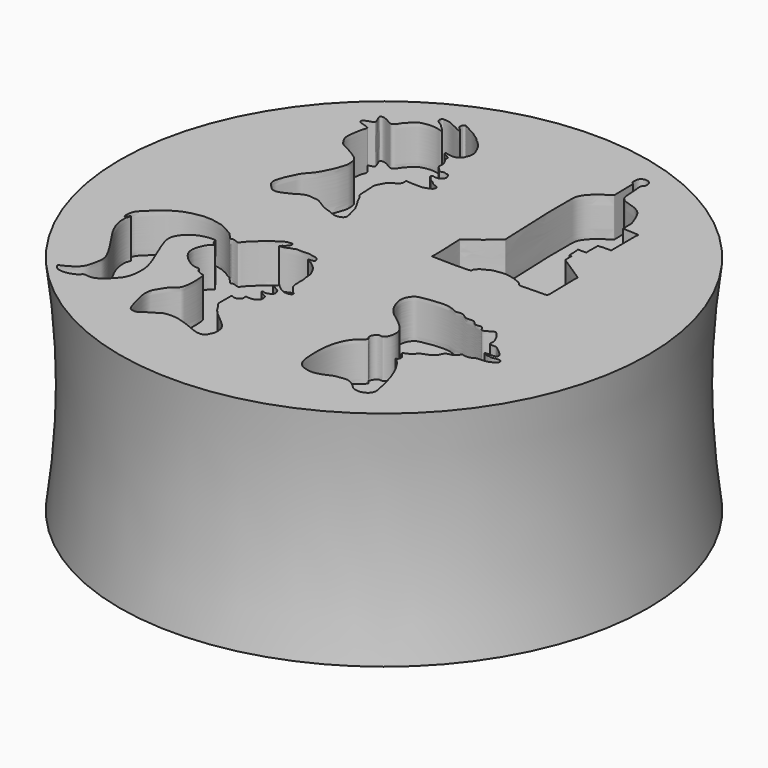
from build123d import *

# Parameters (mm, degrees)
F3_DEPTH = 2.032
F5_DEPTH = 2.032
F7_DEPTH = 2.032
F9_DEPTH = 2.032


with BuildPart() as f1:
    # F0 (on Front) → F1 (revolve)
    with BuildSketch(Plane.XZ):
        with BuildLine():
            Line((13.716, 0), (0, 0))
            Line((0, 0), (0, -11.5731857513))
            Line((0, -11.5731857513), (13.716, -11.5731857513))
            ThreePointArc((13.716, -11.5731857513), (13.3108942081, -5.7865928757), (13.716, 0))
        make_face()
    revolve(axis=Axis((0, 0, -5.7865928757), (0, 0, -1)))

    # F2 (on Top) → F3 (cut)
    with BuildSketch(Plane.XY):
        with BuildLine():
            add(Edge.make_bspline(
                [(-6.905444432, 1.8205125816), (-6.810169393, 1.84644297), (-6.6521913318, 1.9312976158), (-6.3217532892, 2.0606607457), (-6.0202620609, 2.3038258286), (-5.6880455928, 2.3318260561), (-5.446172564, 2.2793194143), (-5.224783216, 2.2817350468), (-4.9588668468, 2.1041887286), (-4.7272150887, 1.9502236312), (-4.4821679353, 1.8437176757), (-4.2062865033, 1.7718683134), (-3.9601212127, 1.6363402206), (-3.7164147967, 1.6241282616), (-3.4937167992, 1.6968150428), (-3.4112016474, 1.8165975547), (-3.424450116, 1.9580823515), (-3.4501937987, 2.1081536581), (-3.5106710922, 2.244290938), (-3.5226221004, 2.4052372282), (-3.6010269197, 2.6594761881), (-3.6712780711, 2.7466389399), (-3.8097927711, 3.0535194829), (-3.9451059095, 3.2106292698), (-4.0104276255, 3.3883061979), (-4.092439748, 3.5538525357), (-4.2099681002, 3.669381575), (-4.2072636319, 3.780609429), (-4.2214195213, 4.0717444297), (-4.2460742393, 4.2529298276), (-4.2295657843, 4.444820209), (-4.2730699736, 4.5902409107), (-4.2009111642, 4.8293088019), (-4.1012189002, 4.9742559491), (-3.9988648346, 5.2082830382), (-3.8658109256, 5.2848794451), (-3.7258191952, 5.3550564946), (-3.6246425341, 5.4358606072), (-3.542511594, 5.4883084458), (-3.4982627017, 5.5702621475), (-3.4838502107, 5.6313193879), (-3.4816062023, 5.71721469), (-3.5050938868, 5.8139414717), (-3.4075781299, 5.8019700015), (-3.2838380051, 5.792321929), (-3.1719112736, 5.7715660893), (-2.8922199929, 5.7837714135), (-2.6463098125, 5.7659096395), (-2.4906607207, 5.815400303), (-2.32591904, 5.8722329662), (-2.1709642193, 5.9658767259), (-2.1477064648, 6.0947460606), (-2.2047185025, 6.2008377332), (-2.329277449, 6.212815625), (-2.5140484001, 6.298790382), (-2.5807127417, 6.4070562197), (-2.7084660949, 6.4593761728), (-2.7975442982, 6.5170988875), (-2.8592396348, 6.6149267598), (-2.8864740446, 6.6663268888), (-2.9721698253, 6.7148187432), (-2.9866409248, 6.7259950038), (-2.9963129053, 6.7842973666), (-2.9187165229, 6.8560815706), (-2.8459491967, 6.7748426577), (-2.7694522723, 6.7984889311), (-2.6395718065, 6.7840941119), (-2.5632151852, 6.8114433368), (-2.4613726032, 6.9001252003), (-2.392393222, 7.0035157623), (-2.4000597389, 7.0693910544), (-2.4220555225, 7.1625966276), (-2.4663008488, 7.218792661), (-2.498644644, 7.2874008684), (-2.5405647138, 7.3201279485), (-2.6211070631, 7.2959365516), (-2.7304675508, 7.3655669771), (-2.816709522, 7.3333397175), (-2.9080309205, 7.3203508254), (-2.956249201, 7.3271139314), (-3.0201503658, 7.3099072336), (-3.0430203088, 7.3962542291), (-3.1337722335, 7.5059967751), (-3.2187302027, 7.5626689136), (-3.2335660332, 7.603715807), (-3.2677455161, 7.6754328962), (-3.2468318019, 7.7374355934), (-3.2544900549, 7.8018511621), (-3.2447765305, 7.8560378949), (-3.2555953948, 7.9037639047), (-3.2607934927, 7.9551739528), (-3.2683195287, 7.9727425784), (-3.3241726273, 8.1146539728), (-3.3815997678, 8.1641327562), (-3.4108893662, 8.2387738888), (-3.4375411299, 8.2836542295), (-3.4338476976, 8.3404247341), (-3.4438482569, 8.4033301876), (-3.44649257, 8.4709547852), (-3.5013311201, 8.4791987874), (-3.545044031, 8.5226718752), (-3.6207717475, 8.5685401531), (-3.6723010516, 8.5931509906), (-3.7354118974, 8.6223371361), (-3.7699701082, 8.64836071), (-3.7914451959, 8.6877310626), (-3.7908879443, 8.7258756204), (-3.7803878029, 8.7301486718), (-3.7277890021, 8.7154055468), (-3.6729298821, 8.7109823356), (-3.6110707686, 8.6841556598), (-3.5105452508, 8.6694913554), (-3.4342110107, 8.6652567901), (-3.3055874899, 8.6521266089), (-3.2255364862, 8.682979881), (-3.1822714579, 8.7051086656), (-3.107378622, 8.7067499931), (-3.0403587555, 8.8054468077), (-2.9568551726, 8.8811419448), (-2.9387153384, 8.9459859473), (-2.897704653, 9.0305195926), (-2.8727797219, 9.0967133677), (-2.8423202101, 9.1745548251), (-2.8478458691, 9.2774935914), (-2.8396646259, 9.3896434831), (-2.869674966, 9.5404169307), (-2.9458426039, 9.649125478), (-2.9677067749, 9.7515655207), (-3.0401845767, 9.8260426502), (-3.0514415099, 9.931518732), (-3.1121576656, 9.9909913411), (-3.1881479277, 10.0656348396), (-3.2022306327, 10.1102431009), (-3.2452247655, 10.1466514048), (-3.3782446572, 10.3055378733), (-3.4765275008, 10.3384498472), (-3.5491949921, 10.4722818853), (-3.6618181517, 10.5301043052), (-3.7098914811, 10.5694643303), (-3.7818818129, 10.6237171282), (-3.8460826928, 10.6722137684), (-3.9057660805, 10.7097704487), (-4.026697344, 10.7943705103), (-4.1015166174, 10.8331944197), (-4.181082755, 10.8778310498), (-4.2609685889, 10.9068834143), (-4.3577750297, 10.9528338532), (-4.4207280057, 11.0183266391), (-4.5917981531, 11.062837008), (-4.6430379445, 11.1207694698), (-4.741313342, 11.0862507426), (-4.7603030162, 11.0064648867), (-4.7961239457, 10.8783529633), (-4.7453427775, 10.8032577314), (-4.6352834814, 10.7248186431), (-4.5770549336, 10.6446948484), (-4.5289630256, 10.5759494088), (-4.4506321465, 10.5312578639), (-4.5521945063, 10.5578385711), (-4.5626670949, 10.6055913349), (-4.6392737172, 10.6087101088), (-4.7295366688, 10.6504114705), (-4.8095334208, 10.6837155362), (-4.8550338246, 10.7241628214), (-4.9344471478, 10.7656731091), (-5.0669091962, 10.7918131499), (-5.0843919752, 10.8388973757), (-5.1991373925, 10.8821257123), (-5.3295575824, 10.9421042834), (-5.424317447, 10.965503318), (-5.545970145, 10.9719956798), (-5.6631409022, 10.9804243304), (-5.7438856623, 10.9942535851), (-5.7871339964, 10.9101160138), (-5.7962245822, 10.8289988513), (-5.7739114495, 10.7328122479), (-5.7125485373, 10.6666550691), (-5.5901324233, 10.610821158), (-5.4627880606, 10.5193394128), (-5.3931177686, 10.4435753584), (-5.3083341382, 10.3524746351), (-5.2239912003, 10.2953493107), (-5.1786083122, 10.246455903), (-5.1556977723, 10.200566006), (-5.128421599, 10.1511106976), (-5.1921656789, 10.13769921), (-5.2151857127, 10.1624127642), (-5.2986890819, 10.1731089461), (-5.3746785086, 10.1919790262), (-5.4979866128, 10.2181175716), (-5.7478784672, 10.242062793), (-5.9004243571, 10.2210566898), (-6.1049958285, 10.1933985354), (-6.336018626, 10.12278057), (-6.4730982798, 9.9997759186), (-6.6472911153, 9.8350445358), (-6.8196186012, 9.6483791752), (-6.9178441235, 9.4334856856), (-7.0482065646, 9.3416571834), (-7.1739407362, 9.3318394483), (-7.3674663398, 9.4620320848), (-7.5289186861, 9.5494018355), (-7.7021654612, 9.6087901022), (-7.847118135, 9.5892306341), (-7.8869025225, 9.449994216), (-7.6096457702, 9.0509161816), (-7.8681216206, 8.9838044827), (-8.0130309143, 8.9398722114), (-8.2264851723, 8.8485064712), (-8.2175158322, 8.6926686757), (-8.0281903222, 8.6197479007), (-7.8557291255, 8.5836240242), (-7.6877016305, 8.5099431142), (-7.6439861099, 8.4816145991), (-7.6208473379, 8.3781563726), (-7.7234439725, 8.2132616471), (-7.7568060129, 7.8230952406), (-7.8137859284, 7.6152856735), (-7.8230618794, 7.2184250651), (-7.7207475596, 7.0358910033), (-7.5422319882, 6.7327617161), (-7.2714009733, 6.6006375649), (-6.8168300668, 6.3742921472), (-6.332424891, 6.0420959596), (-6.2724238724, 5.8162716263), (-6.2283106361, 5.473106261), (-6.3310227212, 5.1383906492), (-6.4157311209, 4.9006644205), (-6.4617462802, 4.7982244308), (-6.7964067636, 4.0761476059), (-7.1823379153, 3.729598711), (-7.3346060122, 3.432957366), (-7.5338053389, 3.0484007812), (-7.6658387373, 2.6088804701), (-7.7204698259, 2.3902911533), (-7.6118549942, 2.143193278), (-7.4223647697, 1.9802481935), (-7.2485618021, 1.7705032376), (-7.0084348913, 1.7924823375), (-6.905444432, 1.8205125816)],
                knots=[0, 0, 0, 0, 0.0061391413, 0.013044367, 0.0202821724, 0.0268766695, 0.032626063, 0.0380104451, 0.0445075529, 0.0507268431, 0.0567103203, 0.0629470102, 0.0690861515, 0.0748188879, 0.0803393663, 0.0845387565, 0.0888341189, 0.0934064408, 0.0978164457, 0.1026039169, 0.1084660412, 0.1125314752, 0.1191659099, 0.1246033477, 0.1295803349, 0.1346485325, 0.1391762402, 0.142983578, 0.1492289116, 0.1543989162, 0.1593587734, 0.1638977556, 0.1695391031, 0.1746073035, 0.1803566926, 0.184884403, 0.1894785503, 0.1936779448, 0.1973009939, 0.2007583805, 0.2036656899, 0.2071728386, 0.2103744193, 0.2134986089, 0.2176608772, 0.221611842, 0.2277701473, 0.233629159, 0.238260967, 0.2431610167, 0.2480032153, 0.2519898306, 0.2557178519, 0.2597618411, 0.2649563164, 0.2690873218, 0.273300174, 0.2771510386, 0.2810019007, 0.283937753, 0.2874634966, 0.289024876, 0.2916507807, 0.2949731328, 0.2983737026, 0.3015897709, 0.3057417022, 0.3090436056, 0.3133243518, 0.31735706, 0.3202929188, 0.3238354966, 0.3270059382, 0.3301763711, 0.3326694492, 0.3358855125, 0.3399295116, 0.3434208481, 0.3469121904, 0.3495381011, 0.3521640118, 0.3553344534, 0.3598452265, 0.3634883736, 0.365880244, 0.3690594025, 0.3720128915, 0.3749582658, 0.3776637462, 0.3802923447, 0.382833429, 0.3845327409, 0.3889612998, 0.3923398734, 0.3955351111, 0.3981722767, 0.4008777574, 0.4039071716, 0.4067309855, 0.4092060214, 0.4121203033, 0.4155708644, 0.4184287897, 0.4214600726, 0.42387816, 0.4263531902, 0.4284899877, 0.4295004169, 0.4321432282, 0.4349507076, 0.4379669131, 0.4416324861, 0.4449485277, 0.4491146255, 0.4524931928, 0.4550150086, 0.4580100952, 0.4619879532, 0.4658873313, 0.4688862991, 0.4724176997, 0.4755538189, 0.4788669961, 0.4825690485, 0.4865091021, 0.4910480712, 0.4952871876, 0.4989933618, 0.5026747057, 0.5063392144, 0.5097589237, 0.5135299141, 0.5159217845, 0.5186480871, 0.5238868632, 0.5276866739, 0.5320989364, 0.536187965, 0.5391022469, 0.5425741812, 0.5458568439, 0.5489996994, 0.5534443654, 0.5569175375, 0.5603591844, 0.5638046601, 0.5675311341, 0.5711078197, 0.5759189319, 0.5790499737, 0.5823844414, 0.5857061812, 0.5898431425, 0.5932257625, 0.5974832292, 0.6011739391, 0.6047276235, 0.6072750374, 0.6102183643, 0.6126968238, 0.6156919155, 0.6194551072, 0.6228669655, 0.6256697207, 0.6292280388, 0.6333905269, 0.6358012249, 0.6397665904, 0.6442683258, 0.6478984683, 0.6519597686, 0.6560210676, 0.6591193333, 0.6624195444, 0.6658102058, 0.6693788956, 0.6727907447, 0.6770809366, 0.6816944065, 0.6854634427, 0.6895608383, 0.6932993312, 0.6962528337, 0.6989661835, 0.7013426677, 0.7038347049, 0.7059552909, 0.7092335237, 0.7125117607, 0.7166582555, 0.7224804939, 0.7271213231, 0.73239135, 0.7380785094, 0.7430533121, 0.748735937, 0.7546782571, 0.7603172018, 0.7647789788, 0.7687198841, 0.7742557538, 0.7793887865, 0.7843597761, 0.7884518463, 0.7924222245, 0.7998413301, 0.8046816637, 0.8095775602, 0.8148943285, 0.8187768999, 0.8237693801, 0.828926136, 0.8337987805, 0.8363462041, 0.8397461871, 0.844858671, 0.8520606648, 0.8577551738, 0.8648422626, 0.8702900435, 0.8769673947, 0.8832940412, 0.8917733906, 0.9005628942, 0.9060106751, 0.9127423306, 0.9197940136, 0.9254048509, 0.9293671078, 0.9395787704, 0.9482118272, 0.9547458829, 0.9624830401, 0.9703897682, 0.9758274982, 0.9816191711, 0.9874958307, 0.993363708, 1, 1, 1, 1], degree=3))
        make_face()
    extrude(amount=-F3_DEPTH, mode=Mode.SUBTRACT)

    # F4 (on Top) → F5 (cut)
    with BuildSketch(Plane.XY):
        with BuildLine():
            add(Edge.make_bspline(
                [(3.4805417527, 1.3584081316), (3.4775718519, 1.3915314783), (3.5556997374, 1.4862982147), (3.6616060146, 1.634383952), (3.851614901, 1.6988779715), (4.0249286442, 1.8182291125), (4.1827333347, 1.8762057154), (4.4373296818, 1.9108899241), (4.6876593649, 1.9373604419), (4.9293432001, 1.9285008644), (5.2629182762, 1.8475718468), (5.4458472981, 1.7722317551), (5.6632095483, 1.694441028), (5.734555229, 1.5716477567), (5.8347633157, 1.510677706), (6.0394467244, 1.5098320016), (6.2458909516, 1.5146251788), (6.6566897292, 1.529125168), (6.9873076913, 1.5389882799), (7.2605216269, 1.5175131929), (7.2577361106, 1.8224475127), (7.2553903364, 2.2824846471), (7.2040009682, 3.4741618275), (7.3027149526, 3.5205116192), (5.8756446091, 4.420500688), (5.884395015, 4.4115188202), (5.8568788314, 4.831493756), (5.8852010239, 4.8622811953), (5.7637241745, 4.8455141433), (5.7368801865, 4.8622912771), (5.7481222627, 5.4165861358), (5.6624877881, 5.4649149525), (6.196523698, 5.4417675648), (6.1023895021, 5.4908606856), (6.1656336174, 6.1630288119), (6.0806496224, 6.213421554), (6.7769132561, 6.2678797546), (6.8377650281, 6.131884304), (6.7428390508, 7.9337410204), (6.8953809583, 7.9956432513), (6.0162139582, 8.0527626844), (5.9767384245, 8.0029937533), (5.9977993871, 8.6017281402), (5.951153741, 8.6670174239), (5.8989346305, 8.8467311323), (5.7999183698, 9.0721845374), (5.594174719, 9.5741822638), (5.0489171605, 9.8248199378), (4.6493730443, 9.9112305853), (4.3181872933, 10.1061932834), (4.2801174686, 10.5103755862), (4.2752061329, 10.9370138401), (4.1905066276, 11.4305272207), (4.3790136244, 11.4617032409), (4.3563265126, 11.826992455), (4.1426505659, 11.9559343313), (3.9693808308, 11.9510305675), (3.7784456279, 11.8616639101), (3.7356388498, 11.6616474578), (3.7256964672, 11.4090529919), (3.8725574582, 11.3623889859), (3.8479901152, 11.2890917935), (3.87404758, 10.1327221986), (3.8746660219, 10.0729329666), (3.4713358547, 9.8575061727), (3.1551866989, 9.600507653), (2.7060199699, 9.117817431), (2.7393203606, 8.383263399), (2.7152939115, 6.9270925415), (2.8374363762, 5.548910248), (2.8336031106, 4.3253481578), (2.8895146978, 4.2980071933), (1.4414530492, 3.1142803812), (1.3883400177, 3.2194436937), (1.512669757, 1.3168156528), (1.389304002, 1.2843154742), (3.5975279391, 1.2206648877), (3.4823015858, 1.3387806865), (3.4805417527, 1.3584081316)],
                knots=[0, 0, 0, 0, 0.0086494177, 0.0187082724, 0.0290116952, 0.0395833607, 0.0490930313, 0.0608139747, 0.0724835732, 0.0840341442, 0.0975081008, 0.108157118, 0.1190240537, 0.127510241, 0.1351642594, 0.1453821441, 0.1561658307, 0.1710162318, 0.1849369509, 0.1956247342, 0.2064097427, 0.2238610998, 0.2485395654, 0.2542906686, 0.2836356286, 0.2880633816, 0.3028135997, 0.3061113221, 0.313489875, 0.3174115726, 0.3346439691, 0.3387105978, 0.354092232, 0.3581588608, 0.3772469313, 0.3816094369, 0.4002744713, 0.4043411306, 0.4346721576, 0.4402288282, 0.4610658568, 0.464781823, 0.4818938854, 0.4895163904, 0.4988258067, 0.5105495177, 0.5273216244, 0.5450481438, 0.5601002974, 0.5736604058, 0.5877551873, 0.6038196756, 0.6191467104, 0.6273404663, 0.6401605144, 0.6513119649, 0.6608320002, 0.6709039169, 0.6813528898, 0.6925700552, 0.7002317176, 0.7064831764, 0.7313264484, 0.7376756569, 0.752339246, 0.7680671576, 0.7859623968, 0.8054407789, 0.8332743317, 0.8626354585, 0.8865540562, 0.8915142636, 0.9226412475, 0.9271015822, 0.9585786545, 0.9618633764, 0.9948747338, 1, 1, 1, 1], degree=3))
        make_face()
    extrude(amount=-F5_DEPTH, mode=Mode.SUBTRACT)

    # F6 (on Top) → F7 (cut)
    with BuildSketch(Plane.XY):
        with BuildLine():
            add(Edge.make_bspline(
                [(-5.0212568603, -10.0061288103), (-4.9688210457, -10.0112087322), (-4.8727683221, -10.0102827665), (-4.7103958859, -9.9429894548), (-4.5052056719, -9.7410259924), (-4.171506198, -9.5827273662), (-3.9570284233, -9.3996484465), (-3.701235168, -9.3829938405), (-3.5010552177, -9.3680148323), (-3.2316240964, -9.3814390476), (-3.0235282483, -9.4581994329), (-2.746812467, -9.5290213321), (-2.3493637964, -9.680026666), (-2.0249238684, -9.8324057675), (-1.7386221951, -9.906837596), (-1.4871418039, -9.8787871063), (-1.3629789965, -9.7835461964), (-1.3364989723, -9.6402619927), (-1.2140690575, -9.4733442015), (-1.2222539152, -9.181438486), (-1.2525938695, -8.9506499519), (-1.4452812125, -8.706659528), (-1.6007086722, -8.5644431882), (-1.8070474721, -8.3859355906), (-2.0329524519, -8.2191591909), (-2.2748695294, -7.9835443474), (-2.4293485744, -7.8028933253), (-2.543613527, -7.5688246181), (-2.7442804846, -7.3957850368), (-2.7171200961, -7.1013819413), (-2.7298024323, -6.8063657378), (-2.7328186405, -6.6574177587), (-2.7181184583, -6.5619319102), (-2.7404313516, -6.4618479838), (-2.6002929463, -6.5383462436), (-2.5280676662, -6.5461458368), (-2.4053226991, -6.5682535202), (-2.3333174847, -6.4777321788), (-2.2788408121, -6.4418846478), (-2.1970800687, -6.3665961033), (-2.2346166549, -6.2962991275), (-2.2185479618, -6.2497943311), (-2.2542075107, -6.1747174542), (-2.1526316269, -6.1845608948), (-2.1158928823, -6.185083702), (-2.0110451592, -6.2014886674), (-1.9017399069, -6.1879310146), (-1.7832325724, -6.1674532703), (-1.7272313299, -6.105640746), (-1.6496129289, -6.0479772643), (-1.5844549443, -5.9985694783), (-1.5818973591, -5.9097952465), (-1.5818208794, -5.8061436589), (-1.6008449307, -5.7305831049), (-1.6541973835, -5.6659015765), (-1.6827350198, -5.6423472462), (-1.7398520605, -5.6339364253), (-1.7557081327, -5.6229116756), (-1.8297608837, -5.5797084235), (-1.8801036248, -5.5502535993), (-1.9341755858, -5.4977267824), (-1.9828199423, -5.471203516), (-1.9991059961, -5.4442143182), (-2.0014728657, -5.4133417722), (-1.9844787192, -5.3996154619), (-1.9743266523, -5.4011843222), (-1.9199194732, -5.4136112587), (-1.8754506958, -5.43252882), (-1.7970888671, -5.4407405957), (-1.7351035095, -5.4396949037), (-1.6726844086, -5.3898875333), (-1.5580532626, -5.3976235307), (-1.4808507811, -5.2678613707), (-1.4658551269, -5.1920015918), (-1.4813556679, -5.133419728), (-1.5128742209, -5.0613929653), (-1.5292036412, -5.0062868793), (-1.5752561742, -4.9647728165), (-1.612455601, -4.9356057419), (-1.7202293949, -4.8756659092), (-1.7716533615, -4.8548111043), (-1.8189584294, -4.7997517283), (-1.8898760572, -4.7952976619), (-1.9406518851, -4.771092756), (-1.9644466198, -4.755641508), (-1.9834904743, -4.747893576), (-1.9613654009, -4.717883659), (-1.9272135081, -4.7125012031), (-1.8990769691, -4.6849045376), (-1.8639713206, -4.6669292898), (-1.857327595, -4.6445929455), (-1.8332208158, -4.6030255641), (-1.8275218997, -4.565887112), (-1.8240879596, -4.4935540154), (-1.7633824399, -4.6113919475), (-1.7049005277, -4.6189814494), (-1.6669264493, -4.6833312804), (-1.584402159, -4.7163737943), (-1.5355633207, -4.7888816104), (-1.4538791446, -4.8172686802), (-1.2940678227, -4.929561348), (-1.1924922804, -4.9080092038), (-1.1290012447, -4.9306380898), (-1.0676418495, -4.9227685383), (-0.9902314929, -4.916189133), (-0.9389163426, -4.8949361767), (-0.8958308312, -4.8897686162), (-0.8707870626, -4.8398650712), (-0.8753869922, -4.7937115415), (-0.8836841795, -4.7332735189), (-0.9546014527, -4.7115213605), (-1.0110873241, -4.6468060105), (-1.030464663, -4.6113355473), (-1.084040989, -4.5540000747), (-1.1137034607, -4.4995020319), (-1.1669832578, -4.4677077475), (-1.2065230562, -4.4139043201), (-1.2428562471, -4.3497501252), (-1.2657951753, -4.3178365684), (-1.2970211838, -4.2455309133), (-1.3090226421, -4.1842829873), (-1.3266348319, -4.1119829144), (-1.3218179494, -4.0548081417), (-1.3254608776, -4.0054525536), (-1.3331896968, -3.9281095213), (-1.3281355284, -3.8822335479), (-1.3419470361, -3.8003517287), (-1.3244875092, -3.7672480355), (-1.3500276205, -3.6938483592), (-1.3077098399, -3.6503915932), (-1.3514832213, -3.5205243338), (-1.3470346447, -3.4495250598), (-1.3762238527, -3.3734958818), (-1.376418644, -3.2867606382), (-1.359208926, -3.1970281959), (-1.4096136034, -3.090869745), (-1.3907975125, -3.0429370106), (-1.4464042853, -2.9140267527), (-1.5043049064, -2.8102546965), (-1.5466233277, -2.6815870961), (-1.6330087222, -2.5909879273), (-1.6930126628, -2.4887652838), (-1.7851807669, -2.4084769516), (-1.8675615268, -2.349461694), (-1.9333457056, -2.2767578197), (-2.0023672823, -2.2283697563), (-2.0902191417, -2.1955588782), (-2.1497829538, -2.1445480056), (-2.2191447171, -2.1116999738), (-2.2572149575, -2.1067504216), (-2.289695446, -2.070369382), (-2.2565981743, -2.0471356607), (-2.2199166928, -2.0387068928), (-2.1663643014, -2.0524185658), (-2.1079988379, -2.0381868236), (-2.0552224251, -2.0174301663), (-1.9955025571, -2.0198394528), (-1.9850856206, -1.9469274439), (-1.9840095721, -1.9136551899), (-2.0273653695, -1.8497394592), (-2.0531071082, -1.7807563024), (-2.1461332837, -1.7541167819), (-2.1845540359, -1.7176537942), (-2.2550270893, -1.7053981375), (-2.4199538438, -1.6860098307), (-2.5225324996, -1.654710743), (-2.6761229363, -1.644634768), (-2.7932084376, -1.6702015328), (-2.9257385185, -1.6599144455), (-2.9947742656, -1.6618221948), (-3.1428641562, -1.6629186052), (-3.2157944072, -1.6463124621), (-3.2913464227, -1.6932500052), (-3.375717272, -1.7146955687), (-3.4765932852, -1.7404450597), (-3.5558252277, -1.7843262677), (-3.6532534127, -1.8146218032), (-3.7483550436, -1.8525824331), (-3.8306238488, -1.8561963513), (-3.877688282, -1.8974643424), (-3.9378517374, -1.8917557023), (-3.9353134414, -1.8648800288), (-3.8972413937, -1.8494139591), (-3.8840793087, -1.7721116586), (-3.7946498125, -1.7440989435), (-3.7315832532, -1.672448162), (-3.6469451334, -1.5847836318), (-3.6142675553, -1.5213498264), (-3.6090708952, -1.4460972444), (-3.6249325224, -1.3964424475), (-3.6782876811, -1.3740617354), (-3.7067127421, -1.3583935127), (-3.8158629279, -1.3999294882), (-3.9250949728, -1.3749840055), (-3.9922592175, -1.4399324669), (-4.0430282869, -1.4369415364), (-4.0776602893, -1.5166848877), (-4.2101560876, -1.5616463836), (-4.3013537437, -1.6408854547), (-4.4104676773, -1.6792150607), (-4.5093583448, -1.7918057712), (-4.6370552018, -1.8303640405), (-4.6860163953, -1.9049847621), (-4.7886385396, -1.9772184477), (-4.836131648, -2.0566525667), (-4.9337143288, -2.121848304), (-4.9828973911, -2.1905669016), (-5.074297224, -2.2668861192), (-5.1424384658, -2.328725242), (-5.2329868639, -2.4089537623), (-5.2734559871, -2.4944877879), (-5.3515325285, -2.5668407769), (-5.3898620585, -2.6259134271), (-5.4396755194, -2.6651790765), (-5.487841669, -2.665380539), (-5.5396573317, -2.6429036417), (-5.6629154791, -2.6030444132), (-5.7077380345, -2.5898055109), (-5.8011404365, -2.5778810213), (-5.8580701848, -2.6057660152), (-5.913717969, -2.6174012487), (-5.981306753, -2.5417859823), (-6.0359830499, -2.437039956), (-6.1359077233, -2.3766281875), (-6.2005198543, -2.2869162342), (-6.2498125237, -2.2245402238), (-6.3820437887, -2.1906860466), (-6.5043880115, -2.0828823694), (-6.6031260957, -2.032381332), (-6.7388054944, -1.9774408983), (-6.9025256269, -1.8753677405), (-7.0400759123, -1.8628807758), (-7.2508617762, -1.8108741247), (-7.4201578326, -1.7832360572), (-7.517593999, -1.7492425024), (-7.6399993989, -1.7679081039), (-7.881678855, -1.7409908601), (-8.0441703658, -1.7494094237), (-8.1116990278, -1.7803757509), (-8.3324585692, -1.8084491509), (-8.3627952484, -1.8229100185), (-8.556670563, -1.8537818083), (-8.6589624822, -1.8921540483), (-8.81276351, -1.9383760293), (-8.9490563721, -1.9828581842), (-9.2396363931, -2.153087491), (-9.454456446, -2.2681388816), (-9.7122052913, -2.4661912353), (-9.8703343414, -2.6272730172), (-10.1704981794, -2.9186937568), (-10.4073097614, -3.143273357), (-10.5014082137, -3.4289030082), (-10.5062985092, -3.7357857805), (-10.4489985362, -3.7591387318), (-10.4055947026, -3.725028179), (-10.3573255882, -3.6735202698), (-10.3257845955, -3.6282609934), (-10.2655803391, -3.5476750748), (-10.2816326204, -3.6427566431), (-10.2964968456, -3.7095908439), (-10.366318165, -3.8319820386), (-10.3425980068, -3.9905984287), (-10.3529508061, -4.3158965034), (-10.1147289012, -4.9797188987), (-9.5277859888, -5.8445010818), (-8.7339421552, -7.0075411426), (-8.8605050559, -7.5766674706), (-8.9244652839, -7.9771209967), (-9.1499841469, -8.4337268861), (-9.8789560394, -8.7747304092), (-9.9402293686, -8.7844355972), (-9.7222395692, -9.22879295), (-8.7436675451, -9.0123933973), (-8.5905549468, -8.6659782376), (-8.0762020898, -8.9238647167), (-7.2774474788, -8.1386035477), (-7.0137739738, -7.7349770087), (-6.913989089, -6.7943214315), (-7.2117486911, -5.9311900816), (-7.8171532752, -4.5954386829), (-7.9158908811, -3.9845451111), (-7.5252805847, -3.4036027239), (-6.8758262927, -3.0693919863), (-6.2360251648, -3.062555746), (-6.2776326367, -3.149239524), (-6.1899273738, -3.3738592553), (-6.0458966653, -3.3884137559), (-6.0319745557, -3.4799989391), (-6.2248816672, -3.497997172), (-6.5979784673, -4.2239853993), (-6.4113357319, -4.8789881545), (-5.5947016356, -5.4955846434), (-5.2140745444, -5.4021029916), (-5.2099343093, -5.5771366664), (-5.0596584876, -5.6922420873), (-4.8810794253, -5.7711113232), (-4.7141345028, -5.7570020459), (-4.6709884871, -6.3978240541), (-4.7033487425, -7.0142608613), (-4.8855831242, -7.3346850859), (-5.1720152927, -7.4763137753), (-5.3105766824, -7.768016908), (-5.6341226697, -8.1720325863), (-5.5979818063, -8.7993393197), (-5.4200670672, -9.3567861896), (-5.2717393058, -9.9631846803), (-5.0834907752, -10.0000996597), (-5.0212568603, -10.0061288103)],
                knots=[0, 0, 0, 0, 0.0034023798, 0.007013978, 0.0117829579, 0.0172321519, 0.0219260067, 0.026287195, 0.0303339306, 0.0348953207, 0.0390697711, 0.0438098751, 0.0496481649, 0.0550304808, 0.0598599334, 0.0642529091, 0.0675833288, 0.0708608056, 0.0748461209, 0.0795761084, 0.0839096958, 0.0887539114, 0.0929024133, 0.0974788247, 0.1022736397, 0.1074236791, 0.1117829447, 0.1162835967, 0.120686862, 0.1254194909, 0.1303123252, 0.1337136943, 0.1365401391, 0.1387319196, 0.141766764, 0.144406313, 0.1473688689, 0.1502366895, 0.152617872, 0.1553861611, 0.1576768517, 0.1596742073, 0.1617733566, 0.1641862733, 0.1660644163, 0.168862137, 0.1719165202, 0.1749302012, 0.1774672998, 0.1802409156, 0.1826989797, 0.1852701937, 0.1881506972, 0.190657276, 0.1931638518, 0.1949153429, 0.19695123, 0.1982496446, 0.2007838404, 0.2030396749, 0.205466312, 0.2075456927, 0.2090854755, 0.2105894288, 0.2117817579, 0.2126500728, 0.2146859555, 0.2167384815, 0.2192039561, 0.2213951695, 0.2238129175, 0.2266920951, 0.2300053455, 0.2324667357, 0.2346162102, 0.2371077357, 0.239255201, 0.2413739777, 0.2433824738, 0.2464703596, 0.2486317508, 0.2509166293, 0.2532708328, 0.2553748114, 0.2568828951, 0.2579324843, 0.2594258574, 0.2610926817, 0.2628623567, 0.2645755456, 0.2659049481, 0.2678012606, 0.269697576, 0.271402797, 0.2741072524, 0.2763013885, 0.2786007227, 0.2812321187, 0.2837585915, 0.2863940768, 0.2902682478, 0.2930665882, 0.2952877581, 0.2974934821, 0.2999807829, 0.302081435, 0.3038539129, 0.3058235651, 0.3077739508, 0.3098259626, 0.3121734851, 0.3147376826, 0.316565652, 0.3190166063, 0.3212499089, 0.3234072494, 0.3257337803, 0.328119212, 0.3299152705, 0.332357843, 0.3346443472, 0.3370532855, 0.3391599341, 0.3411651419, 0.3436007896, 0.3456046112, 0.3480831579, 0.3498119402, 0.3521187141, 0.3541707262, 0.3573449161, 0.3597844183, 0.3622541139, 0.3648552557, 0.3675754833, 0.3705018319, 0.3724522081, 0.3756715107, 0.3788516156, 0.3820775892, 0.385209027, 0.3882724666, 0.3913657619, 0.3942151674, 0.3969760763, 0.3995612075, 0.4022589699, 0.4047866343, 0.4072074644, 0.4089799417, 0.4106753568, 0.4122216319, 0.4139611187, 0.4160221169, 0.4181959437, 0.4203443331, 0.4223312897, 0.4245401329, 0.426200083, 0.4286017996, 0.4310107388, 0.4336731247, 0.4356699716, 0.4380009219, 0.441610746, 0.4446236241, 0.4480354492, 0.451195932, 0.4543478921, 0.4567804428, 0.4601588886, 0.4625922109, 0.4651295002, 0.467791295, 0.4706474335, 0.473328551, 0.4761726328, 0.4790397302, 0.4815414164, 0.4837584983, 0.4857148711, 0.4868409227, 0.4885270966, 0.4908685565, 0.4934652421, 0.4962538501, 0.4993494051, 0.5017307144, 0.5041227016, 0.5060938167, 0.5081354152, 0.5096876895, 0.5126237887, 0.5156047302, 0.518159607, 0.5199875674, 0.5224052475, 0.5257035773, 0.5288040115, 0.5317853761, 0.5352083897, 0.5383738111, 0.540995638, 0.5440911953, 0.5468290002, 0.5498035946, 0.5524266645, 0.5554476739, 0.5582107026, 0.5612545394, 0.5640149151, 0.5668839067, 0.5692734395, 0.5714396241, 0.5732802485, 0.5754431233, 0.5786092496, 0.5806468967, 0.5832901461, 0.5855442009, 0.5874960803, 0.5902023337, 0.5932937399, 0.5963179883, 0.5992421012, 0.6016869713, 0.6049129436, 0.6085043476, 0.6114544606, 0.614864878, 0.6187292006, 0.6220497109, 0.6262071234, 0.6299221527, 0.6326766691, 0.6357608743, 0.6402210598, 0.643724438, 0.6462859911, 0.650348358, 0.6522152813, 0.6560041208, 0.6591372376, 0.662569048, 0.6660096905, 0.6710956433, 0.6756607921, 0.6806035214, 0.6849261002, 0.6906470444, 0.6957349801, 0.7007143791, 0.7054254177, 0.7071388735, 0.709135727, 0.7114875458, 0.7137860942, 0.7160072662, 0.718115108, 0.7206365279, 0.7238369227, 0.7273076462, 0.7322434287, 0.7395330478, 0.748964643, 0.7593771648, 0.7658468734, 0.7713329345, 0.7778382513, 0.7855724063, 0.7871246864, 0.7923606568, 0.8008355276, 0.8057139535, 0.8115127171, 0.8205282879, 0.8269561535, 0.8351709249, 0.8439731103, 0.8547107795, 0.8615309453, 0.8685519659, 0.8764737927, 0.8829112215, 0.8848750034, 0.8890680031, 0.8922653308, 0.8942815313, 0.8976117614, 0.905248062, 0.9125986006, 0.9213675957, 0.9262113181, 0.929255944, 0.9330843587, 0.9370265872, 0.9400192573, 0.9467326601, 0.9540153244, 0.9591911559, 0.9640084299, 0.9689878282, 0.9752624829, 0.9821279471, 0.9892117445, 0.9959618551, 1, 1, 1, 1], degree=3))
        make_face()
    extrude(amount=-F7_DEPTH, mode=Mode.SUBTRACT)

    # F8 (on Top) → F9 (cut)
    with BuildSketch(Plane.XY):
        with BuildLine():
            add(Edge.make_bspline(
                [(3.9323186502, -9.6769956872), (4.0613265796, -9.6867310028), (4.2384167562, -9.6624887132), (4.6403458931, -9.5247403096), (4.8525013907, -9.3914661123), (5.1440297986, -9.3593181655), (5.4007570593, -9.3033035001), (5.6684232496, -9.3187818833), (5.9751140271, -9.5071080438), (6.2152649421, -9.8130969518), (6.6800545493, -9.8392100515), (6.9444512309, -9.6916566767), (7.1251082254, -9.45512956), (7.0215636181, -8.9911312174), (6.8802370041, -8.3163050569), (6.5833358775, -7.5006007418), (6.2392927364, -6.9251746175), (6.0065517671, -6.7030192255), (5.9185641558, -6.6893965504), (5.9231289353, -6.613262616), (5.9811891003, -6.6503591109), (6.067473441, -6.5144476356), (6.0391770732, -6.3462292565), (5.9411440077, -6.2574510913), (5.8078997107, -6.131260595), (5.8588033558, -6.079568886), (5.9544101176, -6.0174539715), (6.2069767934, -5.9502921267), (6.3712441069, -5.6343020042), (6.8648059058, -5.5557282461), (7.0985773962, -5.2892626699), (7.1476622084, -5.0925952691), (7.2810658834, -4.9851561188), (7.5130542197, -4.9838505361), (7.7098240671, -4.8487153193), (7.790358097, -4.6387549816), (7.8807462303, -4.7177906871), (8.1564261451, -4.7161999793), (8.3683647993, -4.6431028835), (8.4672347397, -4.54678786), (8.8266912395, -4.5664184559), (9.1248601641, -4.5024787581), (9.4633917614, -4.2768264927), (9.3214628519, -4.0325895639), (8.8720304608, -4.1846656456), (8.7801096027, -4.1096521279), (8.6575588576, -4.1411106629), (8.2103779608, -3.9362735116), (8.9538883414, -4.0303123271), (9.0495849728, -3.8670897352), (9.0143959898, -3.7098058548), (8.4860155312, -3.2774959415), (8.3678285128, -3.2878936006), (8.0145877198, -3.3024155181), (8.1855129493, -2.9387190879), (7.6906537986, -2.2535403735), (7.5374681474, -2.3094727176), (7.1939073594, -2.5293488915), (7.0394115579, -2.5066974638), (6.9283758932, -2.1979600984), (6.5467713023, -2.3877810651), (6.3681623267, -1.9966665665), (5.9051698909, -2.1831160593), (5.6343898538, -1.8043731895), (5.1982099583, -1.9734111253), (4.7982704969, -1.564132474), (3.2377065104, -1.8184132894), (3.1042060191, -1.9162916824), (2.940282351, -2.0791282221), (2.8197962014, -2.4179677629), (2.8734362892, -2.7502955827), (3.0858703161, -3.3307043173), (3.6413952755, -3.8518113941), (4.7768523836, -4.5937535555), (4.3727408431, -5.5898514908), (4.0658163844, -5.3562481576), (3.7718051922, -5.8404311008), (4.0964835068, -6.0003042141), (3.4782397567, -6.3362737891), (3.0193826743, -7.3541495958), (3.0147607144, -8.554200766), (3.1347550907, -9.5361375786), (3.7439527179, -9.6627810432), (3.9323186502, -9.6769956872)],
                knots=[0, 0, 0, 0, 0.0122715226, 0.0260306295, 0.0369696887, 0.0484739565, 0.0596047619, 0.0705874006, 0.0833583102, 0.0967152129, 0.1108468249, 0.1225959927, 0.1336115051, 0.1479657844, 0.1662089213, 0.1866470126, 0.2045610548, 0.2162630123, 0.2219828653, 0.2265749777, 0.2308452755, 0.2387596477, 0.247489657, 0.2556530015, 0.2642967129, 0.2690525583, 0.2762777215, 0.2869934091, 0.2994325444, 0.3143740329, 0.3269323263, 0.3364055103, 0.3448308485, 0.3550552204, 0.3657161285, 0.3748626626, 0.3808972923, 0.392258657, 0.4024903868, 0.4101713628, 0.4226617875, 0.4353204546, 0.4479778979, 0.4568647916, 0.4711060155, 0.4779081014, 0.4859560063, 0.4966704944, 0.5118978776, 0.5204714229, 0.5287368283, 0.5461639204, 0.5544406322, 0.5650836301, 0.5768328754, 0.5958059327, 0.6037548132, 0.6173593875, 0.6251921275, 0.6359806331, 0.6480591019, 0.6602650646, 0.6739268988, 0.6873143666, 0.7003425986, 0.716286305, 0.7427702548, 0.7516438916, 0.7614887169, 0.7742135475, 0.7867278932, 0.8031489318, 0.8225376012, 0.8467779261, 0.8652876041, 0.8757514892, 0.8896677288, 0.8991794283, 0.9145441177, 0.9375812934, 0.9617561119, 0.9820822115, 1, 1, 1, 1], degree=3))
        make_face()
    extrude(amount=-F9_DEPTH, mode=Mode.SUBTRACT)


solid = f1.part
